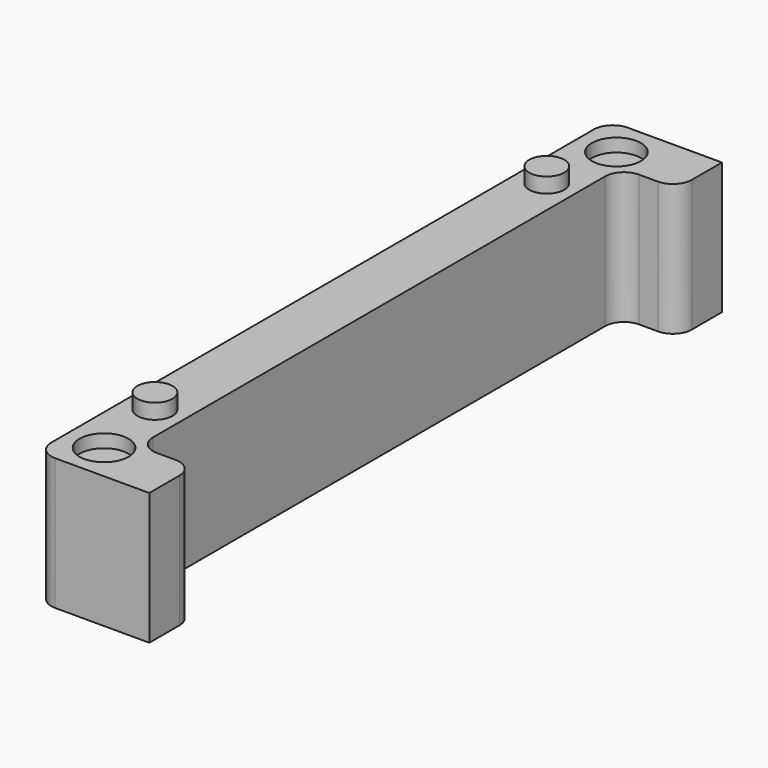
from build123d import *

# Parameters (mm, degrees)
F1_DEPTH = 35
F2_R     = 6.5
F4_DEPTH = 3.5
F2_R_2   = 4.65
F5_DEPTH = 4
F3_R     = 6.5
F6_DEPTH = 3
F3_R_2   = 5
F7_DEPTH = 5


with BuildPart() as f1:
    # F0 (on Top) → F1 (new body)
    with BuildSketch(Plane.XY):
        with BuildLine():
            Line((18.748637, 81.127049), (18.748637, 91.127049))
            Line((18.748637, 91.127049), (-6.251363, 91.127049))
            ThreePointArc((-6.251363, 91.127049), (-9.786897, 89.662583), (-11.251363, 86.127049))
            Line((-11.251363, 86.127049), (-11.251363, -93.872951))
            ThreePointArc((-11.251363, -93.872951), (-9.786897, -97.408485), (-6.251363, -98.872951))
            Line((-6.251363, -98.872951), (18.748637, -98.872951))
            Line((18.748637, -98.872951), (18.748637, -88.872951))
            ThreePointArc((18.748637, -88.872951), (17.284171, -85.337417), (13.748637, -83.872951))
            Line((13.748637, -83.872951), (8.748637, -83.872951))
            ThreePointArc((8.748637, -83.872951), (5.213103, -82.408485), (3.748637, -78.872951))
            Line((3.748637, -78.872951), (3.748637, 71.127049))
            ThreePointArc((3.748637, 71.127049), (5.213103, 74.662583), (8.748637, 76.127049))
            Line((8.748637, 76.127049), (13.748637, 76.127049))
            ThreePointArc((13.748637, 76.127049), (17.284171, 77.591515), (18.748637, 81.127049))
        make_face()
    extrude(amount=F1_DEPTH)

    # F2 (on face) → F4 (cut)
    with BuildSketch(Plane.XY.offset(35)):
        with Locations((-1.251363, 81.127049)):
            Circle(F2_R)
        with Locations((-1.251363, -88.872951)):
            Circle(F2_R)
    extrude(amount=-F4_DEPTH, mode=Mode.SUBTRACT)

    # F2 (on face) → F5 (join)
    with BuildSketch(Plane.XY.offset(35)):
        with Locations((-3.751363, 61.127049)):
            Circle(F2_R_2)
        with Locations((-3.751363, -68.872951)):
            Circle(F2_R_2)
    extrude(amount=F5_DEPTH)

    # F3 (on face) → F6 (cut)
    with BuildSketch(Plane(origin=(0, 0, 0), x_dir=(1, 0, 0), z_dir=(0, 0, -1))):
        with Locations((-1.251363, -81.127049)):
            Circle(F3_R)
        with Locations((-1.251363, 88.872951)):
            Circle(F3_R)
    extrude(amount=-F6_DEPTH, mode=Mode.SUBTRACT)

    # F3 (on face) → F7 (cut)
    with BuildSketch(Plane(origin=(0, 0, 0), x_dir=(1, 0, 0), z_dir=(0, 0, -1))):
        with Locations((-3.751363, -61.127049)):
            Circle(F3_R_2)
        with Locations((-3.751363, 68.872951)):
            Circle(F3_R_2)
    extrude(amount=-F7_DEPTH, mode=Mode.SUBTRACT)


solid = f1.part
